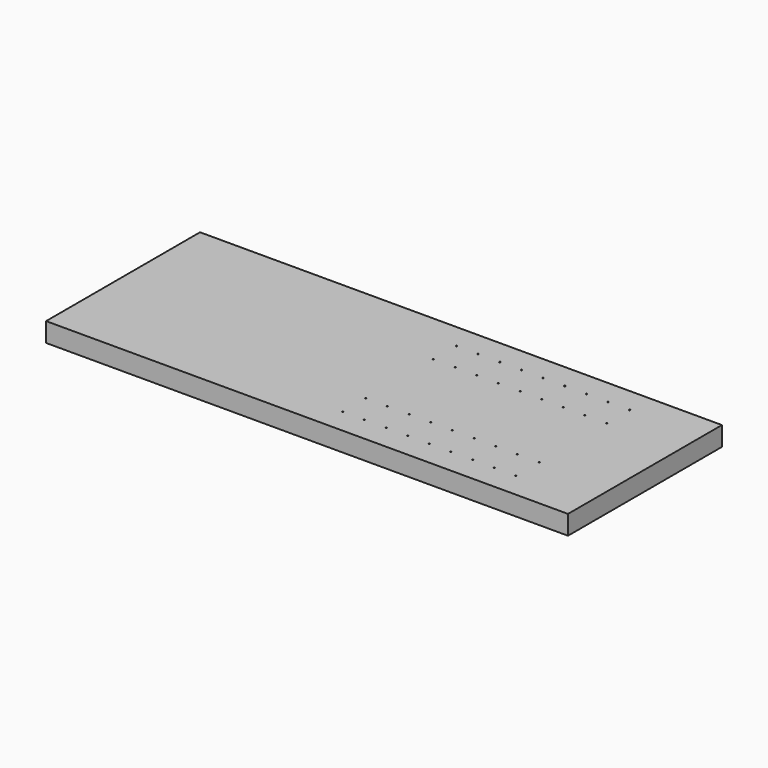
from build123d import *

# Parameters (mm, degrees)
F0_W     = 5511.8
F0_H     = 2032.000358
F1_DEPTH = 203.2
F3_D     = 12.7


with BuildPart() as f1:
    # F0 (on Top) → F1 (new body)
    with BuildSketch(Plane.XY):
        with Locations((0, -0.000179)):
            Rectangle(F0_W, F0_H)
    extrude(amount=F1_DEPTH)

    # F3 (through all)
    with Locations(Plane(origin=(0, 0, 0), x_dir=(1, 0, 0), z_dir=(0, 0, -1))):
        with Locations((393.7, 750.900558), (1079.5, 750.900558), (1536.7, 750.900558), (1765.3, 750.900558), (1993.9, 750.900558), (1765.3, -750.9002), (850.9, 446.100558), (1536.7, -750.9002), (1079.5, 446.100558), (1308.1, 446.100558), (622.3, -750.9002), (1536.7, 446.100558), (393.7, -446.1002), (1993.9, -446.1002), (1308.1, -446.1002), (1079.5, -750.9002), (393.7, -750.9002), (1765.3, 446.100558), (622.3, 446.100558), (1536.7, -446.1002), (393.7, 446.100558), (1993.9, -750.9002), (165.1, 446.100558), (165.1, -446.1002), (1308.1, -750.9002), (850.9, -446.1002), (1765.3, -446.1002), (1079.5, -446.1002), (622.3, -446.1002), (850.9, -750.9002), (165.1, -750.9002), (1993.9, 446.100558), (165.1, 750.900558), (1308.1, 750.900558), (850.9, 750.900558), (622.3, 750.900558)):
            Hole(F3_D / 2)


solid = f1.part
